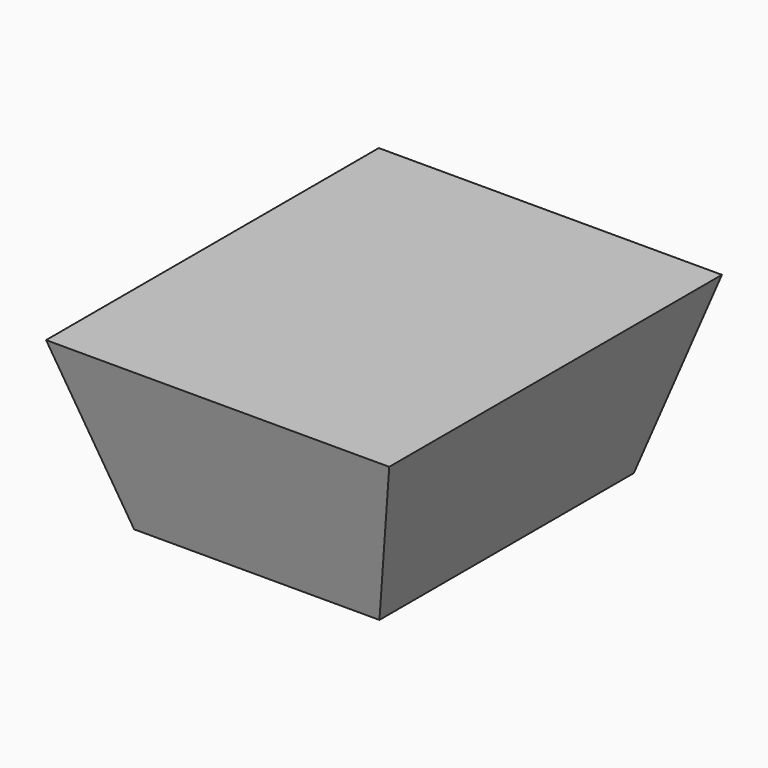
from build123d import *

# Parameters (mm, degrees)
F0_W     = 67.9279565811
F0_H     = 88.0647003651
F1_DEPTH = 47.244
F1_TAPER = -16
F2_DEPTH = 25.4


with BuildPart() as f1:
    # F0 (on Top) → F1 (new body)
    with BuildSketch(Plane.XY):
        Rectangle(F0_W, F0_H)
    extrude(amount=F1_DEPTH, taper=F1_TAPER)

    # F0 (on Top) → F2 (join)
    with BuildSketch(Plane.XY):
        Rectangle(F0_W, F0_H)
    extrude(amount=F2_DEPTH)


solid = f1.part
